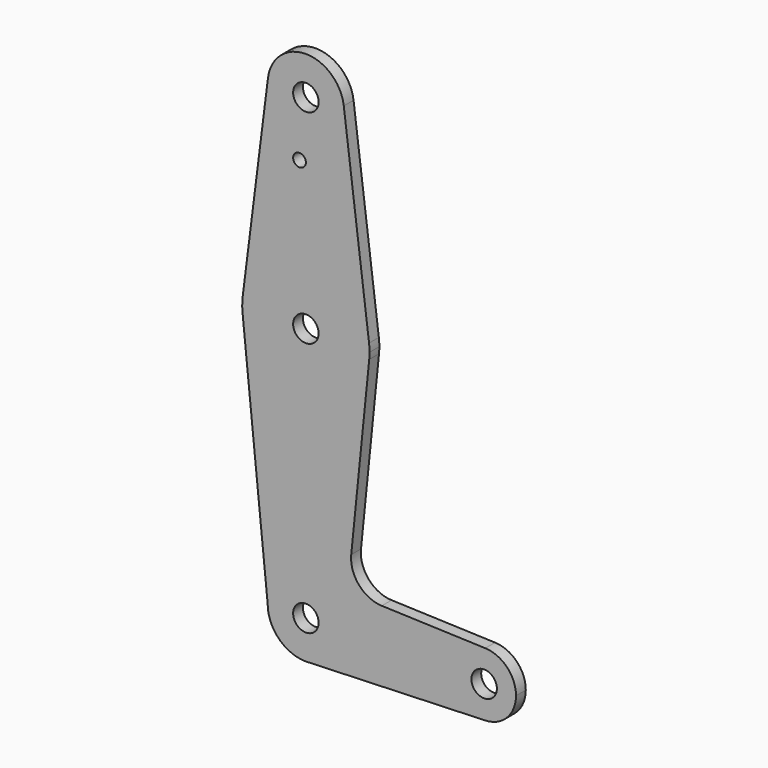
from build123d import *

# Parameters (mm, degrees)
F0_R     = 3.175
F0_R_2   = 1.5875
F1_DEPTH = 3.048


with BuildPart() as f1:
    # F0 (on Front) → F1 (new body)
    with BuildSketch(Plane.XZ):
        with BuildLine():
            ThreePointArc((0.677344, -9.500886), (6.970557, -6.491299), (9.525, 0))
            ThreePointArc((9.525, 0), (0, 9.525), (-9.525, 0))
            ThreePointArc((-9.525, 0), (-6.735192, -6.735192), (0, -9.525))
            Line((0, -9.525), (0.677344, -9.500886))
        make_face()
        Circle(F0_R, mode=Mode.SUBTRACT)
        with BuildLine():
            ThreePointArc((-9.525, 0), (0, 9.525), (9.525, 0))
            ThreePointArc((9.525, 0), (6.970557, -6.491299), (0.677344, -9.500886))
            Line((0.677344, -9.500886), (44.732405, -7.932475))
            ThreePointArc((44.732405, -7.932475), (36.5125, 0), (44.732405, 7.932475))
            Line((44.732405, 7.932475), (18.934103, 8.850924))
            ThreePointArc((18.934103, 8.850924), (13.224974, 11.57098), (11.307223, 17.59718))
            Line((11.307223, 17.59718), (15.794203, 61.90038))
            ThreePointArc((15.794203, 61.90038), (0, 47.625), (-15.794203, 61.90038))
            Line((-15.794203, 61.90038), (-9.525, 0))
        make_face()
        with BuildLine():
            ThreePointArc((0, -9.525), (0.338886, -9.51897), (0.677344, -9.500886))
            Line((0.677344, -9.500886), (0, -9.525))
        make_face()
        with BuildLine():
            ThreePointArc((-15.750488, 65.484375), (-15.873819, 63.693615), (-15.794203, 61.90038))
            ThreePointArc((-15.794203, 61.90038), (0, 47.625), (15.794203, 61.90038))
            ThreePointArc((15.794203, 61.90038), (15.854788, 62.699171), (15.875, 63.5))
            ThreePointArc((15.875, 63.5), (15.843841, 64.494139), (15.750488, 65.484375))
            ThreePointArc((15.750488, 65.484375), (0, 79.375), (-15.750488, 65.484375))
        make_face()
        with Locations((0, 63.5)):
            Circle(F0_R, mode=Mode.SUBTRACT)
        with BuildLine():
            ThreePointArc((44.732405, 7.932475), (36.5125, 0), (44.732405, -7.932475))
            ThreePointArc((44.732405, -7.932475), (50.161633, -5.51191), (52.3875, 0))
            ThreePointArc((52.3875, 0), (50.161633, 5.51191), (44.732405, 7.932475))
        make_face()
        with Locations((44.45, 0)):
            Circle(F0_R, mode=Mode.SUBTRACT)
        with BuildLine():
            Line((-9.450293, 115.490625), (-15.750488, 65.484375))
            ThreePointArc((-15.750488, 65.484375), (0, 79.375), (15.750488, 65.484375))
            Line((15.750488, 65.484375), (9.450293, 115.490625))
            ThreePointArc((9.450293, 115.490625), (9.506305, 114.896483), (9.525, 114.3))
            ThreePointArc((9.525, 114.3), (-0.596483, 104.793695), (-9.450293, 115.490625))
        make_face()
        with Locations((-1.5875, 99.990685)):
            Circle(F0_R_2, mode=Mode.SUBTRACT)
        with BuildLine():
            ThreePointArc((9.450293, 115.490625), (0, 123.825), (-9.450293, 115.490625))
            ThreePointArc((-9.450293, 115.490625), (-0.596483, 104.793695), (9.525, 114.3))
            ThreePointArc((9.525, 114.3), (9.506305, 114.896483), (9.450293, 115.490625))
        make_face()
        with Locations((0, 114.3)):
            Circle(F0_R, mode=Mode.SUBTRACT)
    extrude(amount=F1_DEPTH)


solid = f1.part
